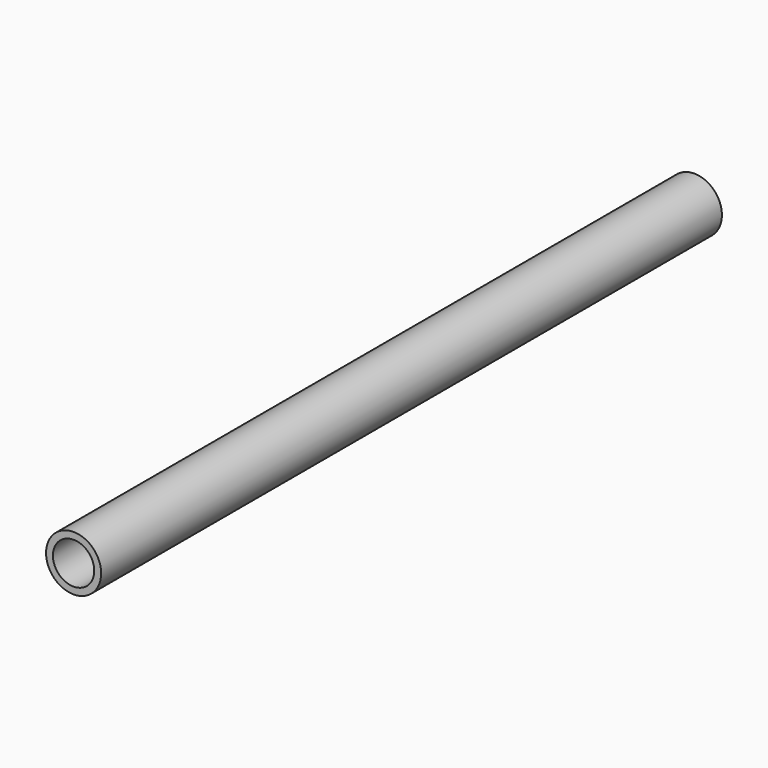
from build123d import *

# Parameters (mm, degrees)
F0_R   = 2.54
F0_R_2 = 1.905


with BuildPart() as f2:
    # F2: sweep along a path in F1
    with BuildLine(Plane.XY) as f2_path:
        Line((0, 0), (0, 71.5270116925))
    # F0 (on Front) → F2 (sweep)
    with BuildSketch(Plane.XZ):
        Circle(F0_R)
        Circle(F0_R_2, mode=Mode.SUBTRACT)
    sweep(path=f2_path.line)


solid = f2.part
